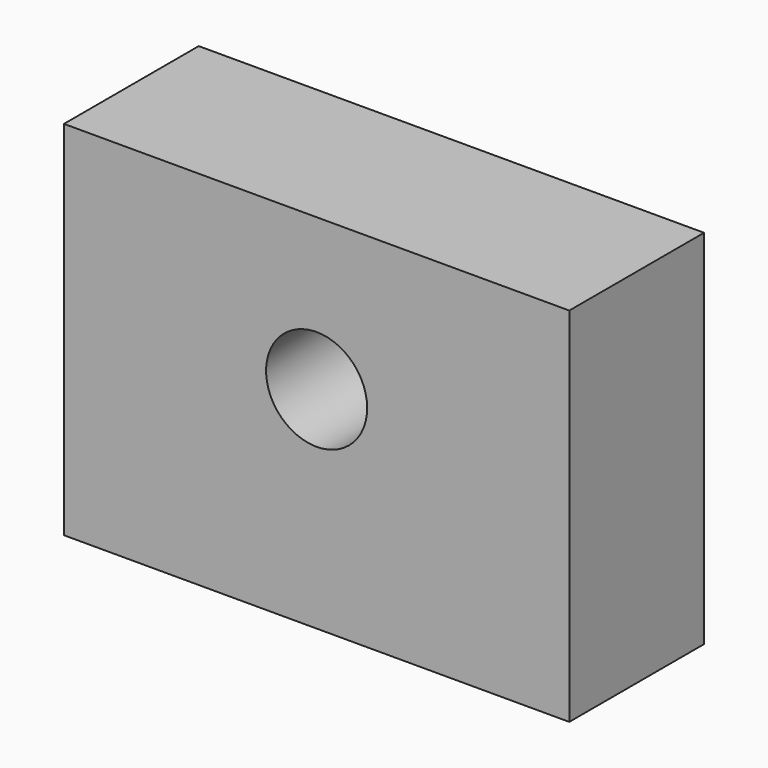
from build123d import *

# Parameters (mm, degrees)
F0_W     = 60
F0_H     = 43
F0_R     = 6
F1_DEPTH = 20


with BuildPart() as f1:
    # F0 (on Front) → F1 (new body)
    with BuildSketch(Plane.XZ):
        Rectangle(F0_W, F0_H)
        with Locations((0, 3.5)):
            Circle(F0_R, mode=Mode.SUBTRACT)
    extrude(amount=-F1_DEPTH)


solid = f1.part
